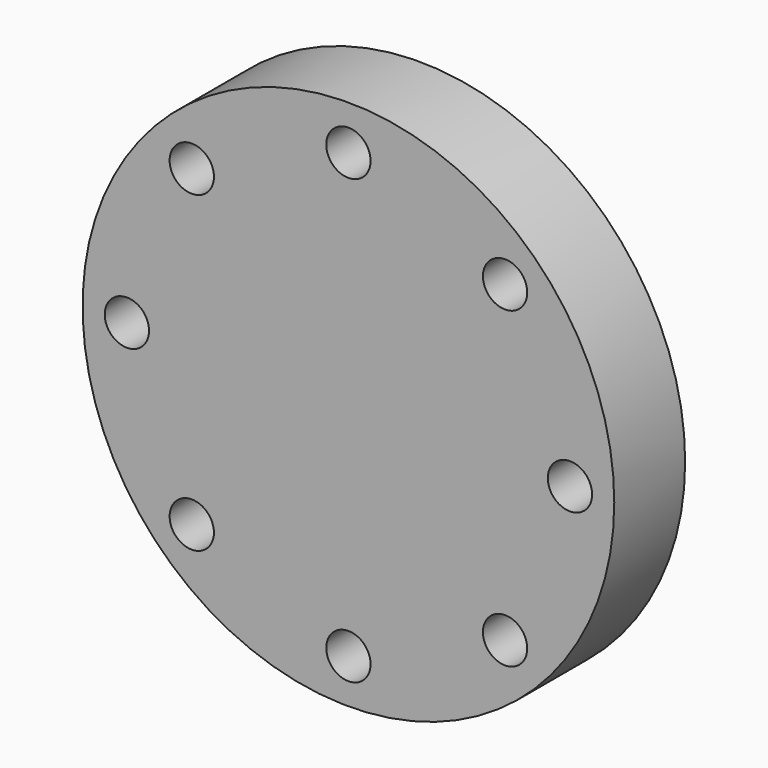
from build123d import *

# Parameters (mm, degrees)
F0_R     = 60
F0_R_2   = 5
F1_DEPTH = 20


with BuildPart() as f1:
    # F0 (on Front) → F1 (new body)
    with BuildSketch(Plane.XZ):
        Circle(F0_R)
        with Locations((-35.355339, -35.355339)):
            Circle(F0_R_2, mode=Mode.SUBTRACT)
        with Locations((0, -50)):
            Circle(F0_R_2, mode=Mode.SUBTRACT)
        with Locations((35.355339, -35.355339)):
            Circle(F0_R_2, mode=Mode.SUBTRACT)
        with Locations((-50, 0)):
            Circle(F0_R_2, mode=Mode.SUBTRACT)
        with Locations((-35.355339, 35.355339)):
            Circle(F0_R_2, mode=Mode.SUBTRACT)
        with Locations((50, 0)):
            Circle(F0_R_2, mode=Mode.SUBTRACT)
        with Locations((0, 50)):
            Circle(F0_R_2, mode=Mode.SUBTRACT)
        with Locations((35.355339, 35.355339)):
            Circle(F0_R_2, mode=Mode.SUBTRACT)
    extrude(amount=F1_DEPTH)


solid = f1.part
